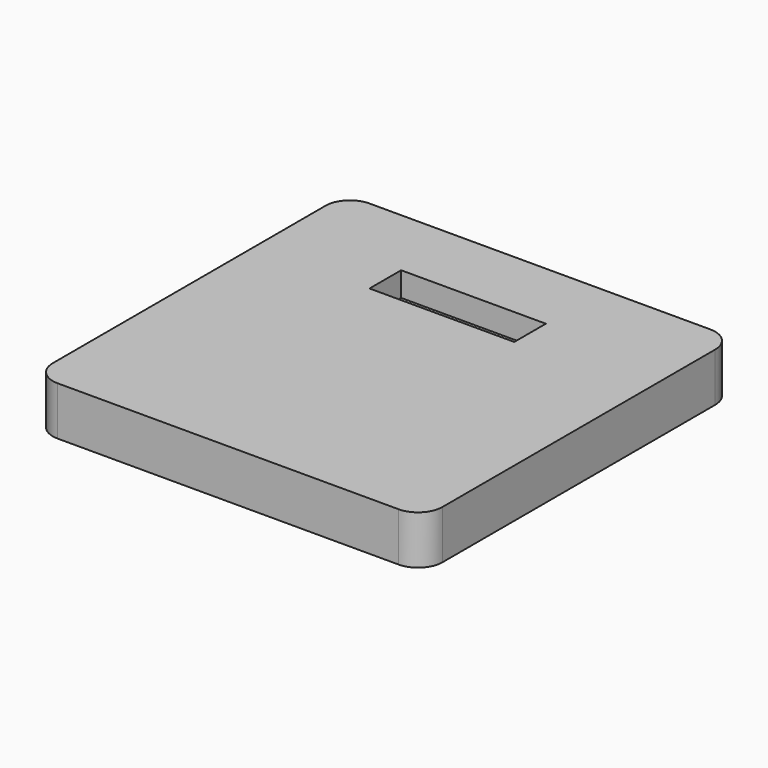
from build123d import *

# Parameters (mm, degrees)
F0_W     = 80
F0_H     = 80
F1_DEPTH = 10
F2_R     = 5
F3_W     = 29.726662
F3_H     = 8.11574
F4_DEPTH = 5


with BuildPart() as f1:
    # F0 (on Top) → F1 (new body)
    with BuildSketch(Plane.XY):
        with Locations((-29.271951, -16.949144)):
            Rectangle(F0_W, F0_H)
    extrude(amount=F1_DEPTH)

    # F2
    f2_edges = [f1.edges().sort_by_distance(p)[0] for p in [
        (-69.271951, 23.050856, 5),
        (-69.271951, -56.949144, 5),
        (10.728049, -56.949144, 5),
        (10.728049, 23.050856, 5),
    ]]
    fillet(f2_edges, radius=F2_R)

    # F3 (on face) → F4 (cut)
    with BuildSketch(Plane.XY.offset(10)):
        with Locations((-30.946564, 4.05787)):
            Rectangle(F3_W, F3_H)
    extrude(amount=-F4_DEPTH, mode=Mode.SUBTRACT)


solid = f1.part
